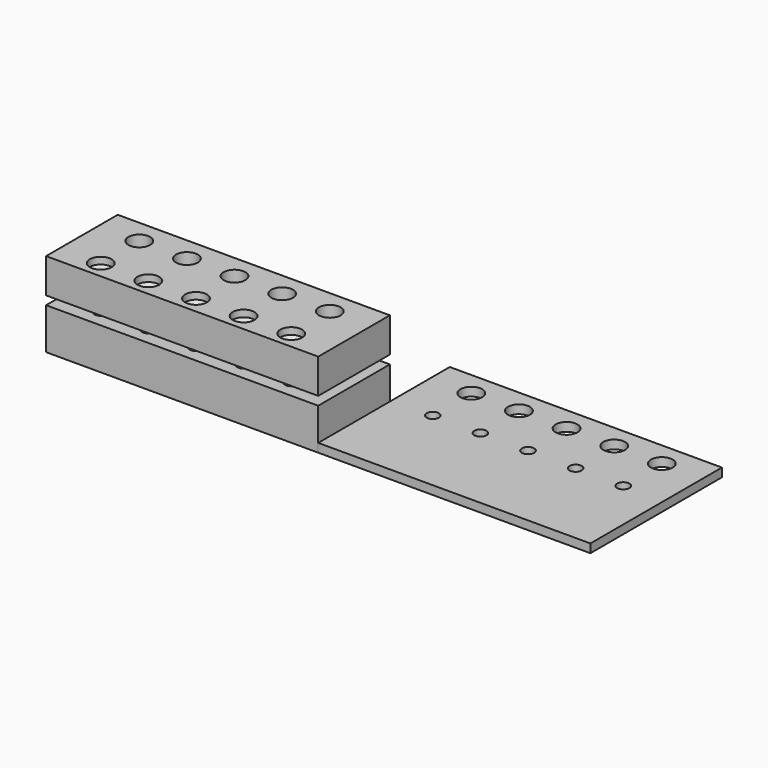
from build123d import *

# Parameters (mm, degrees)
F0_W      = 200
F0_H      = 120.81129
F1_DEPTH  = 6.35
F3_D      = 16
F4_W      = 200
F4_H      = 65.8
F5_DEPTH  = 62.15
F7_D      = 9
F8_D      = 16
F9_W      = 25.4
F9_H      = 6.35
F10_DEPTH = 200
F11_D     = 16
F11_DEPTH = 5
F11_TIP   = 4.8068849522
F12_W     = 40.4
F12_H     = 6.35
F13_DEPTH = 200.001
F14_D     = 9


with BuildPart() as f1:
    # F0 (on Top) → F1 (new body)
    with BuildSketch(Plane.XY):
        with Locations((100, 60.405645)):
            Rectangle(F0_W, F0_H)
    extrude(amount=F1_DEPTH)

    # F3 (through all)
    with Locations(Plane.XY.offset(6.35)):
        with Locations((30, 103.10749), (65, 103.10749), (100, 103.10749), (135, 103.10749), (170, 103.10749)):
            Hole(F3_D / 2)

    # F14 (through all)
    with Locations(Plane.XY.offset(6.35)):
        with Locations((100, 67.7074846), (135, 67.7074846), (170, 67.7074846), (65, 67.7074846), (30, 67.7074846)):
            Hole(F14_D / 2)


with BuildPart() as f5:
    # F4 (on Top) → F5 (new body)
    with BuildSketch(Plane.XY):
        with Locations((-100, 32.9)):
            Rectangle(F4_W, F4_H)
    extrude(amount=F5_DEPTH)

    # F7 (through all)
    with Locations(Plane.XY.offset(62.15)):
        with Locations((-170, 12.7), (-135, 12.7), (-100, 12.7), (-65, 12.7), (-30, 12.7)):
            Hole(F7_D / 2)

    # F8 (through all)
    with Locations(Plane.XY.offset(62.15)):
        with Locations((-170, 48.1), (-135, 48.1), (-100, 48.1), (-65, 48.1), (-30, 48.1)):
            Hole(F8_D / 2)

    # F9 (on face) → F10 (cut)
    with BuildSketch(Plane.YZ):
        with Locations((12.7, 33.575)):
            Rectangle(F9_W, F9_H)
    extrude(amount=-F10_DEPTH, mode=Mode.SUBTRACT)

    # F11
    with Locations(Plane.XY.offset(62.15)):
        with Locations((-170, 12.7), (-135, 12.7), (-100, 12.7), (-65, 12.7), (-30, 12.7)):
            Hole(F11_D / 2, depth=F11_DEPTH)
            with Locations((0, 0, -(F11_DEPTH + F11_TIP / 2))):  # 118° drill point
                Cone(0, F11_D / 2, F11_TIP, mode=Mode.SUBTRACT)

    # F12 (on face) → F13 (cut, through all)
    with BuildSketch(Plane.YZ):
        with Locations((45.6, 33.575)):
            Rectangle(F12_W, F12_H)
    extrude(amount=-F13_DEPTH, mode=Mode.SUBTRACT)


solid = Compound([f1.part, f5.part])
